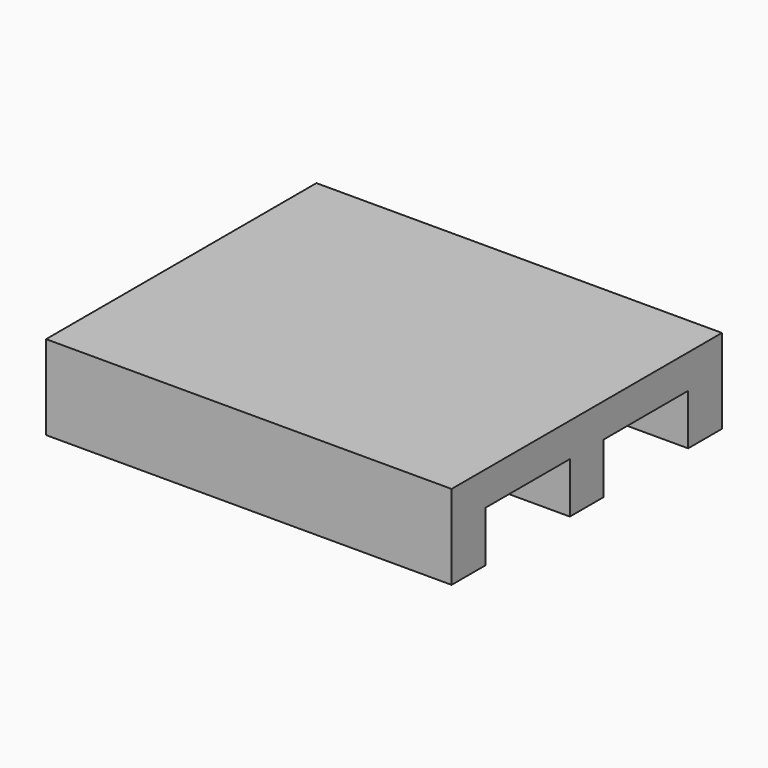
from build123d import *

# Parameters (mm, degrees)
F0_W     = 1219.2
F0_H     = 1016
F1_DEPTH = 101.6
F2_W     = 1219.2
F2_H     = 127
F3_DEPTH = 152.4


with BuildPart() as f1:
    # F0 (on Top) → F1 (new body)
    with BuildSketch(Plane.XY):
        Rectangle(F0_W, F0_H)
    extrude(amount=F1_DEPTH)

    # F2 (on face) → F3 (join)
    with BuildSketch(Plane(origin=(0, 0, 0), x_dir=(1, 0, 0), z_dir=(0, 0, -1))):
        with Locations((0, 444.5)):
            Rectangle(F2_W, F2_H)
        with Locations((0, -444.5)):
            Rectangle(F2_W, F2_H)
        Rectangle(F2_W, F2_H)
    extrude(amount=F3_DEPTH)


solid = f1.part
